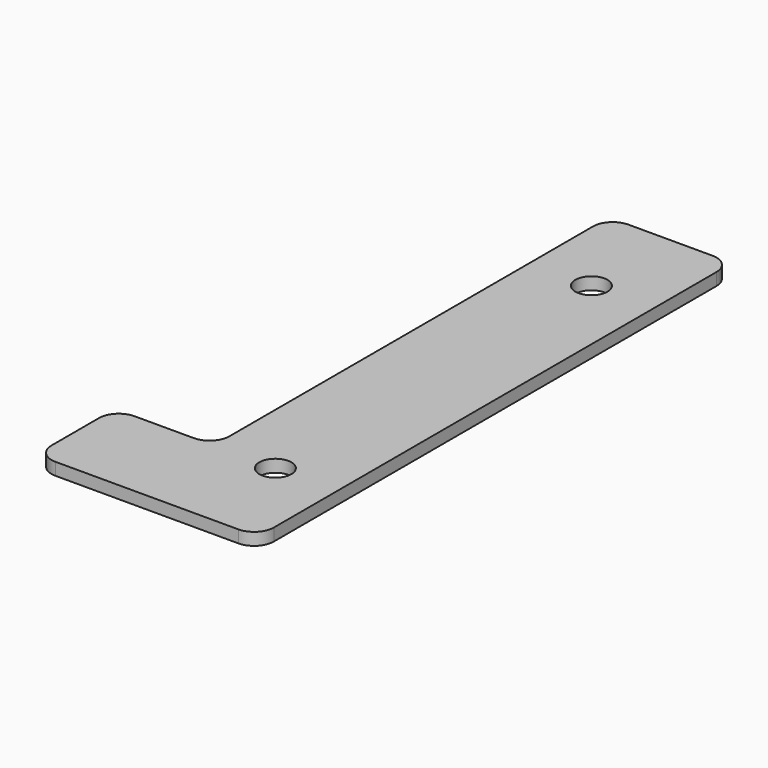
from build123d import *

# Parameters (mm, degrees)
F0_R     = 4.1275
F1_DEPTH = 3.175
F2_R     = 5.08


with BuildPart() as f1:
    # F0 (on Top) → F1 (new body)
    with BuildSketch(Plane.XY):
        Polygon((15.875, 77.233556), (-15.875, 77.233556), (-15.875, -49.766444), (-41.275, -49.766444), (-41.275, -75.166444), (15.875, -75.166444), align=None)
        with Locations((0, -49.766444)):
            Circle(F0_R, mode=Mode.SUBTRACT)
        with Locations((0, 51.833556)):
            Circle(F0_R, mode=Mode.SUBTRACT)
    extrude(amount=F1_DEPTH)

    # F2
    f2_edges = [f1.edges().sort_by_distance(p)[0] for p in [
        (-15.875, 77.233556, 1.5875),
        (15.875, 77.233556, 1.5875),
        (-15.875, -49.766444, 1.5875),
        (-41.275, -49.766444, 1.5875),
        (-41.275, -75.166444, 1.5875),
        (15.875, -75.166444, 1.5875),
    ]]
    fillet(f2_edges, radius=F2_R)


solid = f1.part
